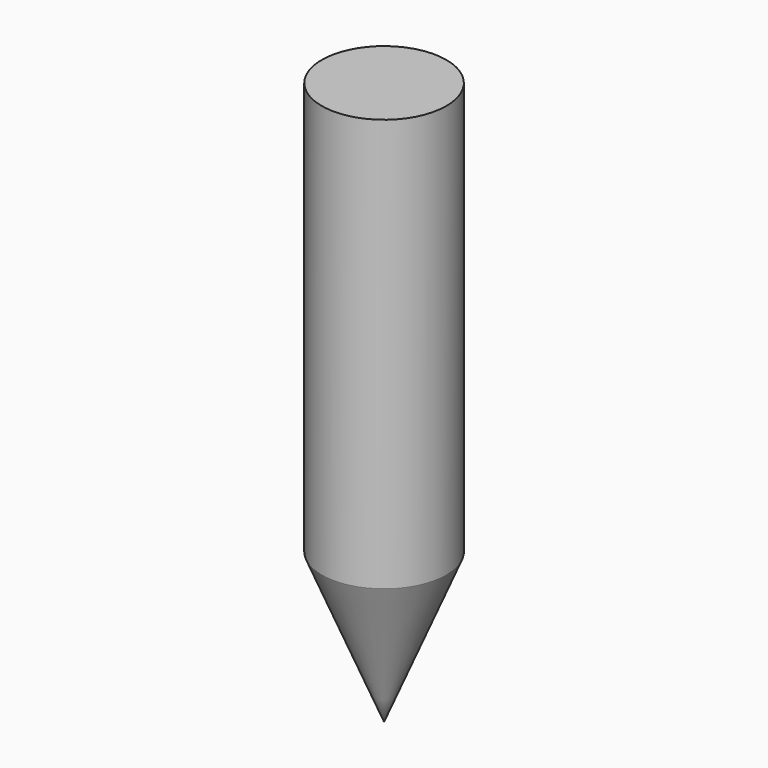
from build123d import *

# Parameters (mm, degrees)
F0_R      = 156.7807212082
F2_DEPTH  = 723.103761673
F4_DEPTH  = 289.7283732891
F5_DEPTH  = 25.4
F5_FACE_R = 156.7807212082


with BuildPart() as f2:
    # F0 (on Top) → F2 (new body)
    with BuildSketch(Plane.XY):
        Circle(F0_R)
    extrude(amount=F2_DEPTH)

    # F4 (add): a face of the model
    f4_faces = [f2.faces().sort_by_distance(p)[0] for p in [
        (0, 0, 0),
    ]]
    extrude(f4_faces, amount=F4_DEPTH)

    # F5 (add): a face of the model
    f5_faces = [f2.faces().sort_by_distance(p)[0] for p in [
        (0, 0, -289.7283732891),
    ]]
    extrude(f5_faces, amount=F5_DEPTH)

    # F5_face (on face) → F6 section 0
    with BuildSketch(Plane(origin=(0, 0, -315.1283732891), x_dir=(1, 0, 0), z_dir=(0, 0, -1)), mode=Mode.PRIVATE) as f6_s0:
        Circle(F5_FACE_R)
    loft([f6_s0.sketch, Vertex(0, 0, -691.5580034256)])


solid = f2.part
